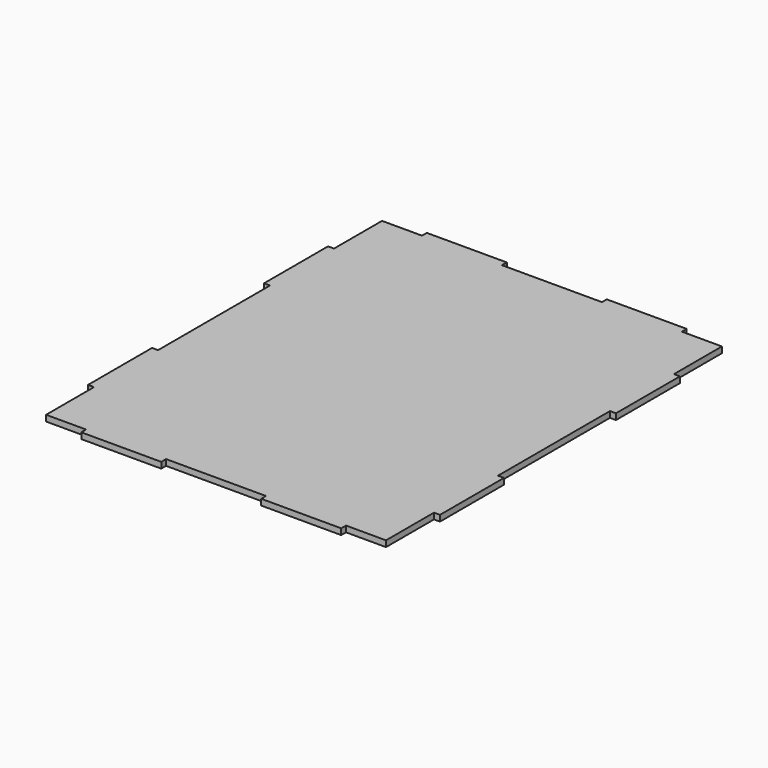
from build123d import *

# Parameters (mm, degrees)
F0_W     = 40
F0_H     = 3
F0_W_2   = 3
F0_H_2   = 40
F1_DEPTH = 3


with BuildPart() as f1:
    # F0 (on Top) → F1 (new body)
    with BuildSketch(Plane.XY):
        Polygon((85, 75), (85, 105), (65, 105), (25, 105), (-25, 105), (-65, 105), (-85, 105), (-85, 75), (-85, 35), (-85, -35), (-85, -75), (-85, -105), (-65, -105), (-25, -105), (25, -105), (65, -105), (85, -105), (85, -75), (85, -35), (85, 35), align=None)
        with Locations((45, 106.5)):
            Rectangle(F0_W, F0_H)
        with Locations((86.5, 55)):
            Rectangle(F0_W_2, F0_H_2)
        with Locations((-45, 106.5)):
            Rectangle(F0_W, F0_H)
        with Locations((86.5, -55)):
            Rectangle(F0_W_2, F0_H_2)
        with Locations((-86.5, 55)):
            Rectangle(F0_W_2, F0_H_2)
        with Locations((45, -106.5)):
            Rectangle(F0_W, F0_H)
        with Locations((-86.5, -55)):
            Rectangle(F0_W_2, F0_H_2)
        with Locations((-45, -106.5)):
            Rectangle(F0_W, F0_H)
    extrude(amount=F1_DEPTH)


solid = f1.part
